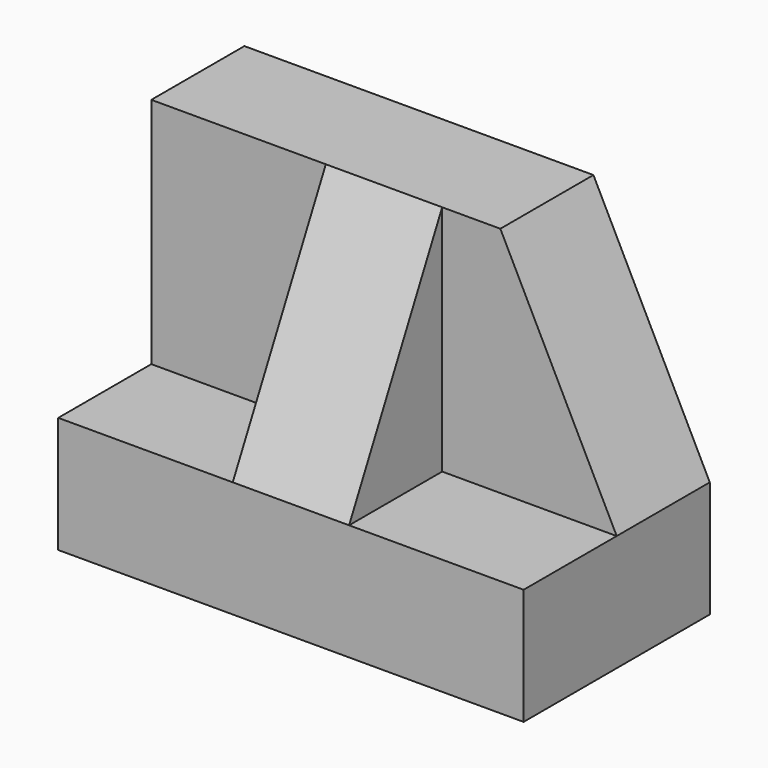
from build123d import *

# Parameters (mm, degrees)
F0_W      = 50.8
F0_H      = 38.1
F1_DEPTH  = 25.4
F2_W      = 12.7
F2_H      = 19.05
F3_DEPTH  = 19.05
F4_W      = 12.7
F4_H      = 25.4
F5_DEPTH  = 19.05
F6_W      = 12.7
F6_H      = 6.35
F7_DEPTH  = 19.05
F9_DEPTH  = 25.4
F11_DEPTH = 25.4


with BuildPart() as f1:
    # F0 (on Front) → F1 (new body)
    with BuildSketch(Plane.XZ):
        with Locations((25.4, 19.05)):
            Rectangle(F0_W, F0_H)
    extrude(amount=F1_DEPTH)

    # F2 (on face) → F3 (cut)
    with BuildSketch(Plane(origin=(0, 0, 0), x_dir=(0, -1, 0), z_dir=(-1, 0, 0))):
        with Locations((19.05, 28.575)):
            Rectangle(F2_W, F2_H)
    extrude(amount=-F3_DEPTH, mode=Mode.SUBTRACT)

    # F4 (on face) → F5 (cut)
    with BuildSketch(Plane.YZ.offset(50.8)):
        with Locations((-19.05, 25.4)):
            Rectangle(F4_W, F4_H)
    extrude(amount=-F5_DEPTH, mode=Mode.SUBTRACT)

    # F6 (on face) → F7 (cut)
    with BuildSketch(Plane(origin=(0, 0, 0), x_dir=(0, -1, 0), z_dir=(-1, 0, 0))):
        with Locations((19.05, 15.875)):
            Rectangle(F6_W, F6_H)
    extrude(amount=-F7_DEPTH, mode=Mode.SUBTRACT)

    # F8 (on face) → F9 (cut)
    with BuildSketch(Plane(origin=(19.05, 0, 0), x_dir=(0, -1, 0), z_dir=(-1, 0, 0))):
        Polygon((25.4, 38.1), (12.7, 38.1), (25.4, 12.7), align=None)
    extrude(amount=-F9_DEPTH, mode=Mode.SUBTRACT)

    # F10 (on face) → F11 (cut)
    with BuildSketch(Plane(origin=(0, 0, 0), x_dir=(-1, 0, 0), z_dir=(0, 1, 0))):
        Polygon((-50.8, 12.7), (-38.1, 38.1), (-50.8, 38.1), align=None)
    extrude(amount=-F11_DEPTH, mode=Mode.SUBTRACT)


solid = f1.part
